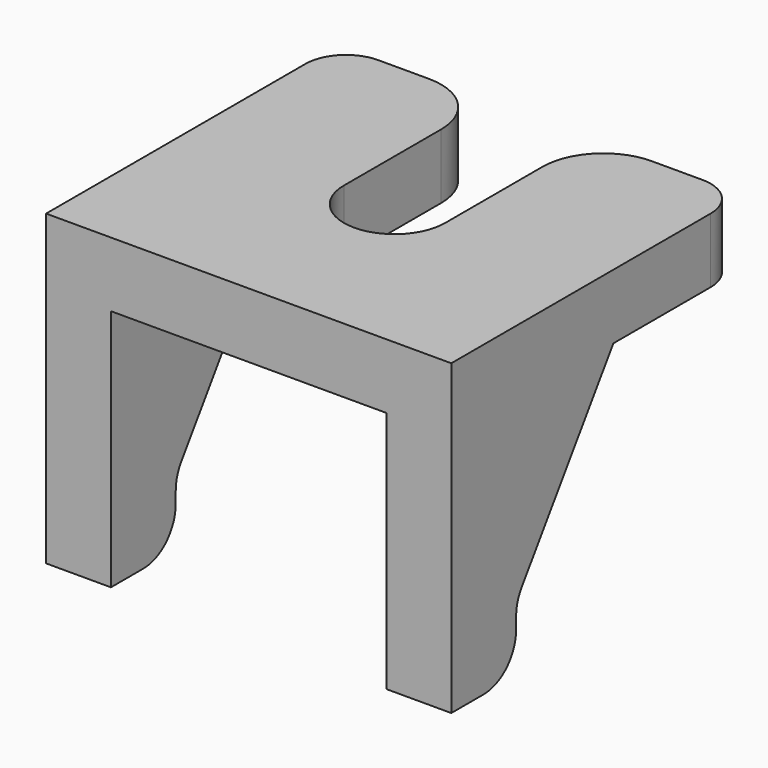
from build123d import *

# Parameters (mm, degrees)
PAD006_DEPTH            = 1.6
PAD007_DEPTH            = 1.6
LINEARPATTERN009_COUNT  = 2
LINEARPATTERN009_PITCH  = 8.4
FILLET008_R             = 1
FILLET009_R             = 1
FILLET035_R             = 1
FILLET036_R             = 1.5
BODY003_PLACEMENT_ANGLE = 90


with BuildPart() as part:
    # Sketch110 → Pad006 (new body)
    with BuildSketch(Plane.XY):
        with BuildLine():
            Line((-4.5, 5), (4.5, 5))
            Line((4.5, 5), (4.5, 1.25))
            Line((0, 1.25), (4.5, 1.25))
            ThreePointArc((0, 1.25), (-1.25, 0), (0, -1.25))
            Line((4.5, -1.25), (0, -1.25))
            Line((4.5, -1.25), (4.5, -5))
            Line((4.5, -5), (-4.5, -5))
            Line((-4.5, -5), (-4.5, 5))
        make_face()
    extrude(amount=PAD006_DEPTH)

    # Sketch111 (on DatumPlane) → Pad007 (join)
    with BuildSketch(Plane.XZ.offset(5)):
        Polygon((-4.5, 0), (-4.5, -6), (-2.5, -6), (-2.5, -4.4), (0.5, 0), align=None)
    pad007 = extrude(amount=-PAD007_DEPTH)

    # LinearPattern009: Pad007 ×2
    with Locations(*[(0, i * LINEARPATTERN009_PITCH, 0) for i in range(1, LINEARPATTERN009_COUNT)]):
        add(pad007)

    # Fillet008
    fillet008_edges = [part.edges().sort_by_distance(p)[0] for p in [
        (-2.5, -4.2, -6),
        (-2.5, 4.2, -6),
    ]]
    fillet(fillet008_edges, radius=FILLET008_R)

    # Fillet009
    fillet009_edges = [part.edges().sort_by_distance(p)[0] for p in [
        (-2.5, -4.2, -4.4),
        (-2.5, 4.2, -4.4),
    ]]
    fillet(fillet009_edges, radius=FILLET009_R)

    # Fillet035
    fillet035_edges = [part.edges().sort_by_distance(p)[0] for p in [
        (4.5, -5, 0.8),
        (4.5, 5, 0.8),
    ]]
    fillet(fillet035_edges, radius=FILLET035_R)

    # Fillet036
    fillet036_edges = [part.edges().sort_by_distance(p)[0] for p in [
        (4.5, -1.25, 0.8),
        (4.5, 1.25, 0.8),
    ]]
    fillet(fillet036_edges, radius=FILLET036_R)


with BuildPart() as part_1:
    # Body003 placement: moved
    add(part.part.moved(Location((-22.4, 32.5, 16.4))).rotate(Axis((-22.4, 32.5, 16.4), (0, 0, 1)), BODY003_PLACEMENT_ANGLE))


solid = part_1.part
